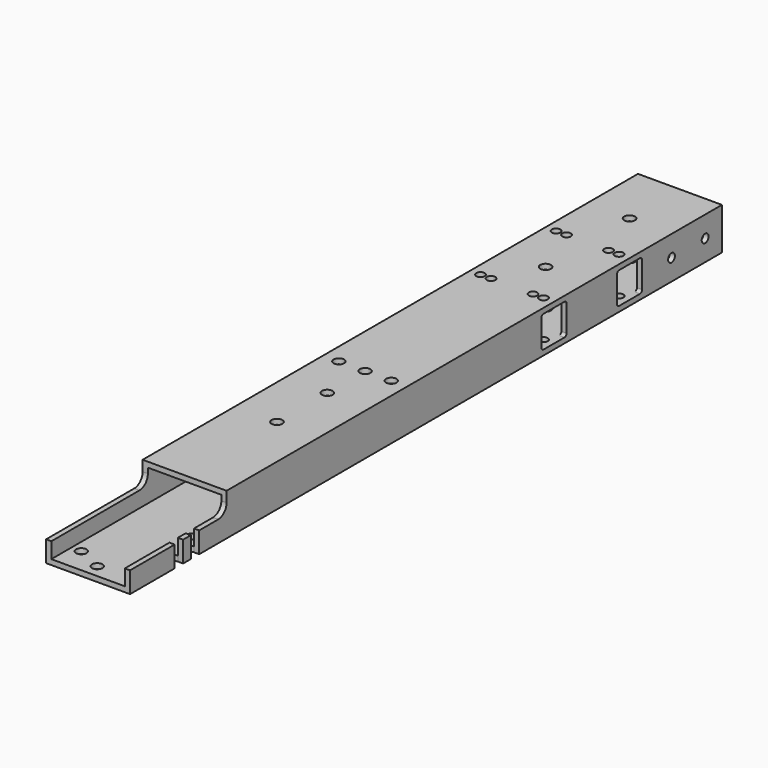
from build123d import *

# Parameters (mm, degrees)
F0_W     = 50.8
F0_H     = 25.4
F0_W_2   = 44.45
F0_H_2   = 19.05
F1_DEPTH = 447.675
F2_R     = 3.2385
F2_R_2   = 2.579688
F2_R_3   = 3.175
F3_DEPTH = 25.4
F4_R     = 2.5781
F5_DEPTH = 50.801
F6_DEPTH = 76.2
F7_DEPTH = 25.4


with BuildPart() as f1:
    # F0 (on Front) → F1 (new body)
    with BuildSketch(Plane.XZ):
        with Locations((-27.201447, 17.172885)):
            Rectangle(F0_W, F0_H)
        with Locations((-27.201447, 17.172885)):
            Rectangle(F0_W_2, F0_H_2, mode=Mode.SUBTRACT)
    extrude(amount=F1_DEPTH)

    # F2 (on face) → F3 (cut)
    with BuildSketch(Plane.XY.offset(29.872885)):
        with Locations((-27.201447, -304.8)):
            Circle(F2_R)
        with Locations((-27.201447, -266.7)):
            Circle(F2_R)
        with Locations((-27.201447, -101.6)):
            Circle(F2_R)
        with Locations((-27.201447, -38.1)):
            Circle(F2_R)
        with Locations((-46.251447, -127)):
            Circle(F2_R_2)
        with Locations((-39.901447, -127)):
            Circle(F2_R_2)
        with Locations((-14.501447, -127)):
            Circle(F2_R_2)
        with Locations((-8.151447, -127)):
            Circle(F2_R_2)
        with Locations((-46.251447, -69.85)):
            Circle(F2_R_2)
        with Locations((-39.901447, -69.85)):
            Circle(F2_R_2)
        with Locations((-14.501447, -69.85)):
            Circle(F2_R_2)
        with Locations((-8.151447, -69.85)):
            Circle(F2_R_2)
        with Locations((-43.076447, -238.125)):
            Circle(F2_R_3)
        with Locations((-27.201447, -238.125)):
            Circle(F2_R_3)
        with Locations((-11.326447, -238.125)):
            Circle(F2_R_3)
        with Locations((-12.088447, -388.366)):
            Circle(F2_R_3)
    extrude(amount=-F3_DEPTH, mode=Mode.SUBTRACT)

    # F4 (on face) → F5 (cut, through all)
    with BuildSketch(Plane(origin=(-52.601447, 0, 0), x_dir=(0, -1, 0), z_dir=(-1, 0, 0))):
        with Locations((38.1, 17.172885)):
            Circle(F4_R)
        with Locations((12.7, 17.172885)):
            Circle(F4_R)
        with BuildLine():
            ThreePointArc((60.325, 9.248085), (60.793688, 8.116572), (61.9252, 7.647885))
            Line((61.9252, 7.647885), (77.7748, 7.647885))
            ThreePointArc((77.7748, 7.647885), (78.906312, 8.116572), (79.375, 9.248085))
            Line((79.375, 9.248085), (79.375, 25.097685))
            ThreePointArc((79.375, 25.097685), (78.906312, 26.229197), (77.7748, 26.697885))
            Line((77.7748, 26.697885), (61.9252, 26.697885))
            ThreePointArc((61.9252, 26.697885), (60.793688, 26.229197), (60.325, 25.097685))
            Line((60.325, 25.097685), (60.325, 9.248085))
        make_face()
        with BuildLine():
            ThreePointArc((117.475, 9.248085), (117.943688, 8.116572), (119.0752, 7.647885))
            Line((119.0752, 7.647885), (134.9248, 7.647885))
            ThreePointArc((134.9248, 7.647885), (136.056312, 8.116572), (136.525, 9.248085))
            Line((136.525, 9.248085), (136.525, 25.097685))
            ThreePointArc((136.525, 25.097685), (136.056312, 26.229197), (134.9248, 26.697885))
            Line((134.9248, 26.697885), (119.0752, 26.697885))
            ThreePointArc((119.0752, 26.697885), (117.943688, 26.229197), (117.475, 25.097685))
            Line((117.475, 25.097685), (117.475, 9.248085))
        make_face()
    extrude(amount=-F5_DEPTH, mode=Mode.SUBTRACT)

    # F4 (on face) → F6 (cut)
    with BuildSketch(Plane(origin=(-52.601447, 0, 0), x_dir=(0, -1, 0), z_dir=(-1, 0, 0))):
        with Locations((12.7, 17.172885)):
            Circle(F4_R)
        with Locations((38.1, 17.172885)):
            Circle(F4_R)
        with BuildLine():
            ThreePointArc((60.325, 9.248085), (60.793688, 8.116572), (61.9252, 7.647885))
            Line((61.9252, 7.647885), (77.7748, 7.647885))
            ThreePointArc((77.7748, 7.647885), (78.906312, 8.116572), (79.375, 9.248085))
            Line((79.375, 9.248085), (79.375, 25.097685))
            ThreePointArc((79.375, 25.097685), (78.906312, 26.229197), (77.7748, 26.697885))
            Line((77.7748, 26.697885), (61.9252, 26.697885))
            ThreePointArc((61.9252, 26.697885), (60.793688, 26.229197), (60.325, 25.097685))
            Line((60.325, 25.097685), (60.325, 9.248085))
        make_face()
        with BuildLine():
            ThreePointArc((117.475, 9.248085), (117.943688, 8.116572), (119.0752, 7.647885))
            Line((119.0752, 7.647885), (134.9248, 7.647885))
            ThreePointArc((134.9248, 7.647885), (136.056312, 8.116572), (136.525, 9.248085))
            Line((136.525, 9.248085), (136.525, 25.097685))
            ThreePointArc((136.525, 25.097685), (136.056312, 26.229197), (134.9248, 26.697885))
            Line((134.9248, 26.697885), (119.0752, 26.697885))
            ThreePointArc((119.0752, 26.697885), (117.943688, 26.229197), (117.475, 25.097685))
            Line((117.475, 25.097685), (117.475, 9.248085))
        make_face()
        with BuildLine():
            ThreePointArc((374.65, 23.522885), (376.509872, 19.032757), (381, 17.172885))
            Line((381, 17.172885), (447.675, 17.172885))
            Line((447.675, 17.172885), (447.675, 29.872885))
            Line((447.675, 29.872885), (374.65, 29.872885))
            Line((374.65, 29.872885), (374.65, 23.522885))
        make_face()
    extrude(amount=-F6_DEPTH, mode=Mode.SUBTRACT)

    # F2 (on face) → F7 (cut)
    with BuildSketch(Plane.XY.offset(29.872885)):
        with Locations((-27.963447, -439.801)):
            Circle(F2_R_3)
        with Locations((-43.406647, -432.5366)):
            Circle(F2_R_3)
        with BuildLine():
            Line((-1.801447, -407.543), (-4.976447, -407.543))
            ThreePointArc((-4.976447, -407.543), (-8.151447, -410.718), (-4.976447, -413.893))
            Line((-4.976447, -413.893), (-1.801447, -413.893))
            Line((-1.801447, -413.893), (-1.801447, -407.543))
        make_face()
        with BuildLine():
            Line((-4.976447, -401.701), (-1.801447, -401.701))
            Line((-1.801447, -401.701), (-1.801447, -395.351))
            Line((-1.801447, -395.351), (-4.976447, -395.351))
            ThreePointArc((-4.976447, -395.351), (-8.151447, -398.526), (-4.976447, -401.701))
        make_face()
    extrude(amount=-F7_DEPTH, mode=Mode.SUBTRACT)


solid = f1.part
